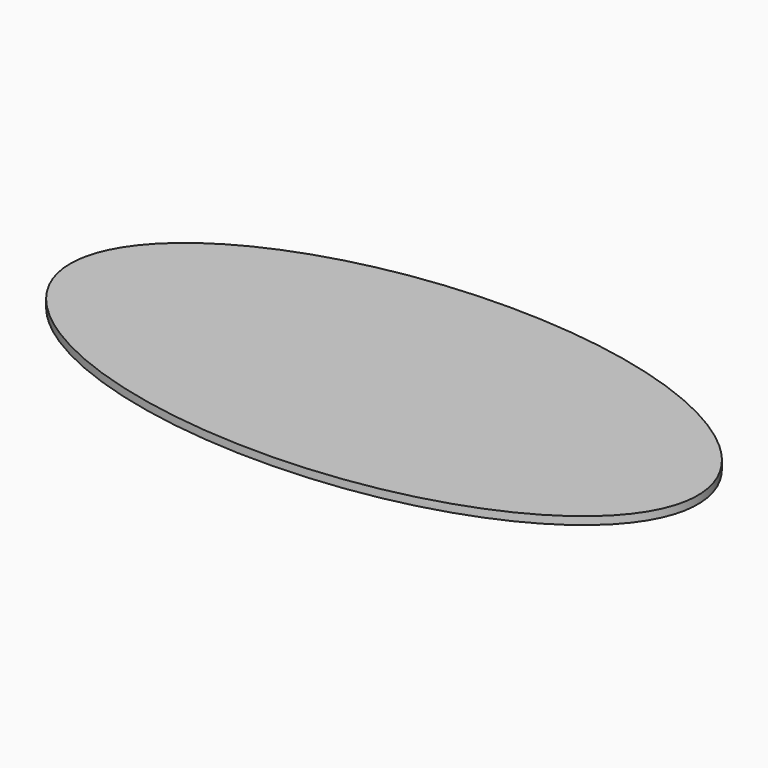
from build123d import *

# Parameters (mm, degrees)
F1_DEPTH = 25
F2_W     = 30
F2_H     = 30
F3_DEPTH = 1
F4_SCALE = 0.05


with BuildPart() as f1:
    # F0 (on Top) → F1 (new body)
    with BuildSketch(Plane.XY):
        with BuildLine():
            add(Edge.make_bspline(
                [(-1000, 0), (-1000, -866.0254037844), (500, -433.0127018922), (2000, 0), (500, 433.0127018922), (-1000, 866.0254037844), (-1000, 0)],
                knots=[0, 0, 0, 2.0943951024, 2.0943951024, 4.1887902048, 4.1887902048, 6.2831853072, 6.2831853072, 6.2831853072], degree=2, weights=[1, 0.5, 1, 0.5, 1, 0.5, 1]))
        make_face()
    extrude(amount=F1_DEPTH)

    # F2 (on face) → F3 (join)
    with BuildSketch(Plane(origin=(0, 0, 0), x_dir=(1, 0, 0), z_dir=(0, 0, -1))):
        with Locations((635, 285)):
            Rectangle(F2_W, F2_H)
        with Locations((635, -285)):
            Rectangle(F2_W, F2_H)
        with Locations((-635, -285)):
            Rectangle(F2_W, F2_H)
        with Locations((-635, 285)):
            Rectangle(F2_W, F2_H)
    extrude(amount=F3_DEPTH)


with BuildPart() as f1_1:
    # F4: moved
    add(f1.part.scale(F4_SCALE))


solid = f1_1.part
